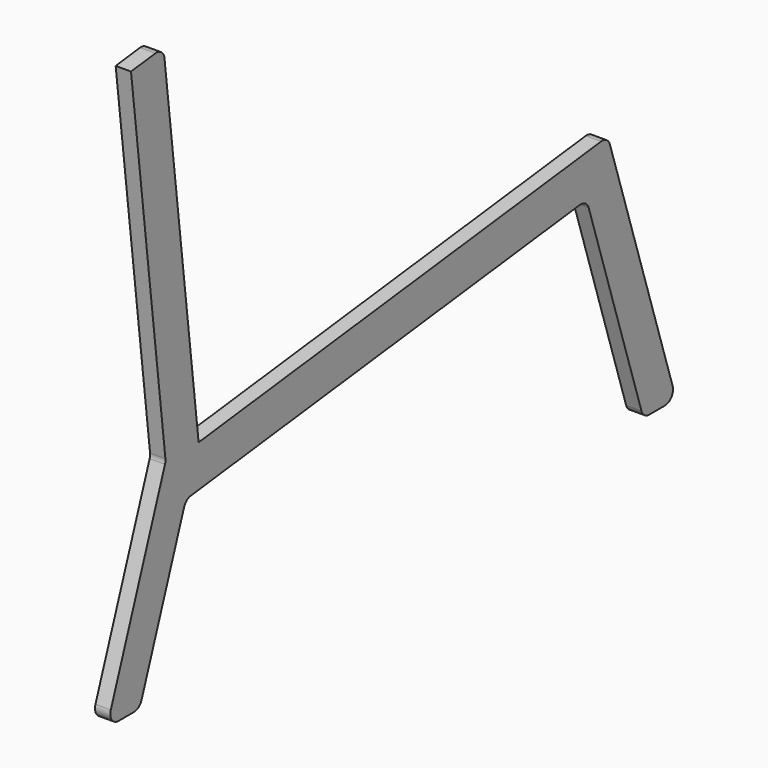
from build123d import *

# Parameters (mm, degrees)
F1_DEPTH = 19.05


with BuildPart() as f1:
    # F0 (on Right) → F1 (new body)
    with BuildSketch(Plane.YZ):
        with BuildLine():
            Line((735.575882, -237.421762), (638.200508, 66.219983))
            ThreePointArc((638.200508, 66.219983), (632.966023, 73.030332), (624.594007, 74.951281))
            Line((624.594007, 74.951281), (0, 0))
            Line((0, 0), (-52.960051, 441.333755))
            ThreePointArc((-52.960051, 441.333755), (-57.723253, 449.806853), (-67.082731, 452.430146))
            Line((-67.082731, 452.430146), (-104.911338, 447.890713))
            Line((-104.911338, 447.890713), (-51.522043, 2.979919))
            ThreePointArc((-51.522043, 2.979919), (-51.512055, 0.039319), (-52.178638, -2.824751))
            Line((-52.178638, -2.824751), (-136.258829, -237.008474))
            ThreePointArc((-136.258829, -237.008474), (-134.693197, -248.607107), (-124.305888, -254))
            Line((-124.305888, -254), (-100.493388, -254))
            ThreePointArc((-100.493388, -254), (-93.186281, -251.687309), (-88.540447, -245.591526))
            Line((-88.540447, -245.591526), (-22.526527, -61.72675))
            ThreePointArc((-22.526527, -61.72675), (-18.487572, -56.085562), (-12.08673, -53.408741))
            Line((-12.08673, -53.408741), (591.721639, 19.048264))
            ThreePointArc((591.721639, 19.048264), (600.093654, 17.127315), (605.328139, 10.316966))
            Line((605.328139, 10.316966), (687.263319, -245.178238))
            ThreePointArc((687.263319, -245.178238), (691.872146, -251.560205), (699.356676, -254))
            Line((699.356676, -254), (723.482526, -254))
            ThreePointArc((723.482526, -254), (733.742731, -248.78453), (735.575882, -237.421762))
        make_face()
    extrude(amount=F1_DEPTH)


solid = f1.part
